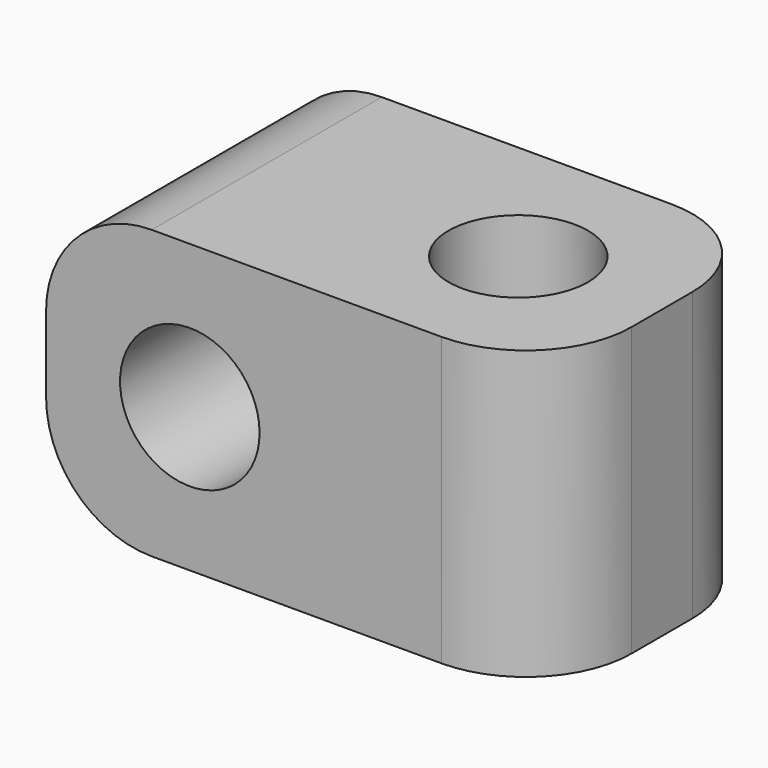
from build123d import *

# Parameters (mm, degrees)
F0_W     = 23.7
F0_H     = 13.6
F0_R     = 3.3
F1_DEPTH = 13.6
F2_R     = 3.3
F3_DEPTH = 13.601
F4_R     = 5


with BuildPart() as f1:
    # F0 (on Front) → F1 (new body)
    with BuildSketch(Plane.XZ):
        with Locations((-10.017435, 24.03643)):
            Rectangle(F0_W, F0_H)
        with Locations((-15.067435, 24.03643)):
            Circle(F0_R, mode=Mode.SUBTRACT)
    extrude(amount=F1_DEPTH)

    # F2 (on face) → F3 (cut, through all)
    with BuildSketch(Plane.XY.offset(30.83643)):
        with Locations((-4.967435, -6.8)):
            Circle(F2_R)
    extrude(amount=-F3_DEPTH, mode=Mode.SUBTRACT)

    # F4
    f4_edges = [f1.edges().sort_by_distance(p)[0] for p in [
        (1.832565, -13.6, 24.03643),
        (1.832565, 0, 24.03643),
        (-21.867435, -6.8, 30.83643),
        (-21.867435, -6.8, 17.23643),
    ]]
    fillet(f4_edges, radius=F4_R)


solid = f1.part
